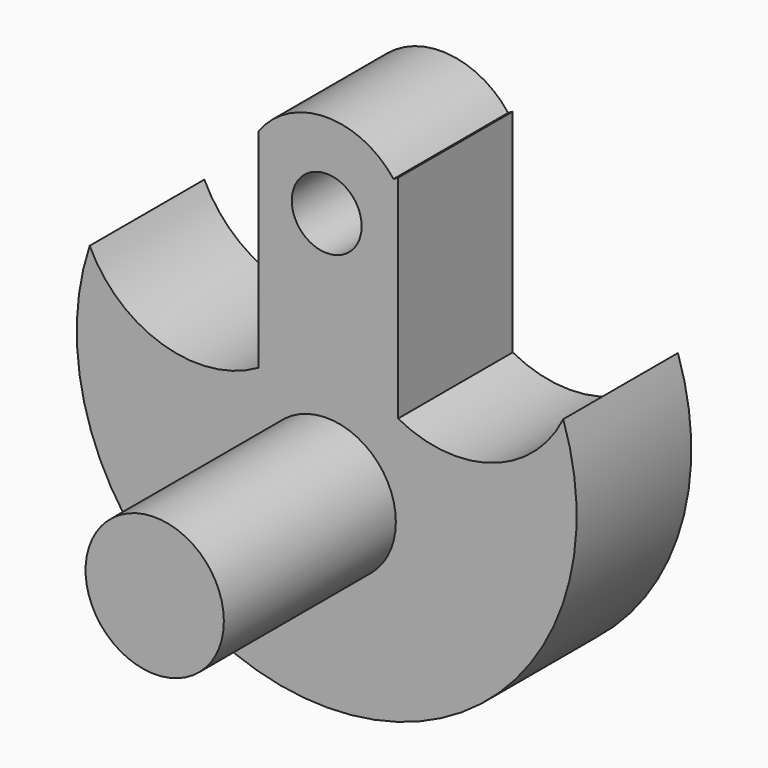
from build123d import *

# Parameters (mm, degrees)
F0_R     = 7.352681
F0_R_2   = 3.714177
F1_DEPTH = 15.24
F2_DEPTH = 38.1


with BuildPart() as f1:
    # F0 (on Front) → F1 (new body)
    with BuildSketch(Plane.XZ):
        with BuildLine():
            ThreePointArc((-7.257116, 2.856944), (-17.452383, 1.719182), (-25.201825, 8.441094))
            ThreePointArc((-25.201825, 8.441094), (0.074275, -26.577783), (25.154252, 8.581821))
            ThreePointArc((25.154252, 8.581821), (17.575225, 2.015845), (7.589162, 2.928124))
            Line((7.589162, 2.928124), (7.589162, 24.512424))
            ThreePointArc((7.589162, 24.512424), (7.355113, 24.860435), (7.105118, 25.197174))
            ThreePointArc((7.105118, 25.197174), (-0.125924, 28.667507), (-7.257116, 24.996366))
            Line((-7.257116, 24.996366), (-7.257116, 2.856944))
        make_face()
        with Locations((0, -6.826792)):
            Circle(F0_R, mode=Mode.SUBTRACT)
        with Locations((0, 19.66116)):
            Circle(F0_R_2, mode=Mode.SUBTRACT)
        with BuildLine():
            ThreePointArc((7.105118, 25.197174), (7.355113, 24.860435), (7.589162, 24.512424))
            Line((7.589162, 24.512424), (7.589162, 25.471331))
            ThreePointArc((7.589162, 25.471331), (7.34565, 25.336882), (7.105118, 25.197174))
        make_face()
    extrude(amount=F1_DEPTH)

    # F0 (on Front) → F2 (join)
    with BuildSketch(Plane.XZ):
        with Locations((0, -6.826792)):
            Circle(F0_R)
    extrude(amount=F2_DEPTH)


solid = f1.part
